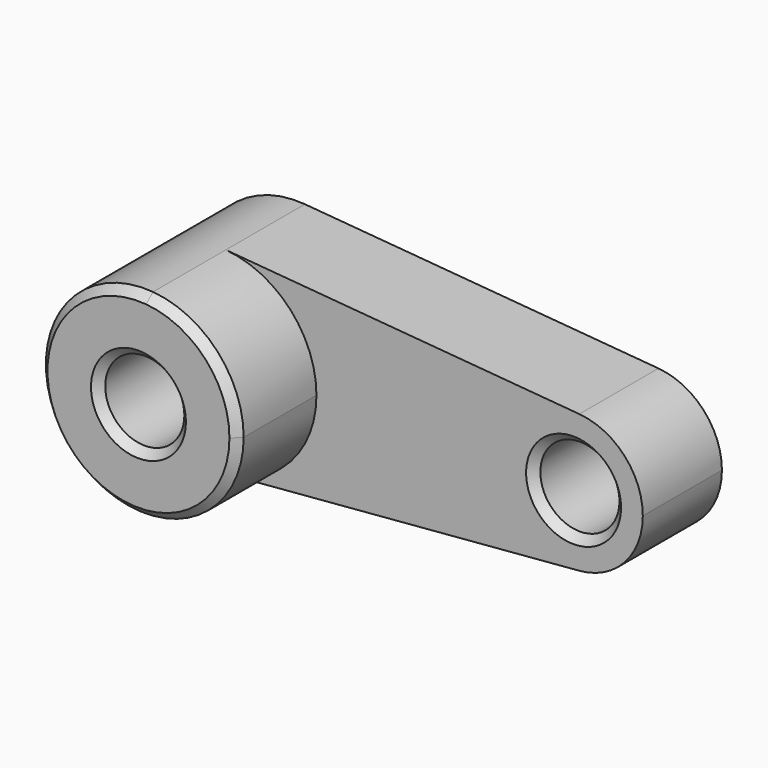
from build123d import *

# Parameters (mm, degrees)
F0_R     = 10
F1_DEPTH = 25
F2_DEPTH = 50
F3_SIZE  = 2
F4_SIZE  = 2


with BuildPart() as f1:
    # F0 (on Front) → F1 (new body)
    with BuildSketch(Plane.XZ):
        with BuildLine():
            ThreePointArc((2.083333, -24.913043), (18.399502, -16.92508), (25, 0))
            ThreePointArc((25, 0), (18.399502, 16.92508), (2.083333, 24.913043))
            ThreePointArc((2.083333, 24.913043), (-25, 0), (2.083333, -24.913043))
        make_face()
        Circle(F0_R, mode=Mode.SUBTRACT)
        with BuildLine():
            ThreePointArc((2.083333, 24.913043), (18.399502, 16.92508), (25, 0))
            ThreePointArc((25, 0), (18.399502, -16.92508), (2.083333, -24.913043))
            Line((2.083333, -24.913043), (91.458333, -17.43913))
            ThreePointArc((91.458333, -17.43913), (72.5, 0), (91.458333, 17.43913))
            Line((91.458333, 17.43913), (2.083333, 24.913043))
        make_face()
        with BuildLine():
            ThreePointArc((107.5, 0), (102.879651, 11.847556), (91.458333, 17.43913))
            ThreePointArc((91.458333, 17.43913), (72.5, 0), (91.458333, -17.43913))
            ThreePointArc((91.458333, -17.43913), (102.879651, -11.847556), (107.5, 0))
        make_face()
        with Locations((90, 0)):
            Circle(F0_R, mode=Mode.SUBTRACT)
    extrude(amount=F1_DEPTH)

    # F0 (on Front) → F2 (join)
    with BuildSketch(Plane.XZ):
        with BuildLine():
            ThreePointArc((2.083333, -24.913043), (18.399502, -16.92508), (25, 0))
            ThreePointArc((25, 0), (18.399502, 16.92508), (2.083333, 24.913043))
            ThreePointArc((2.083333, 24.913043), (-25, 0), (2.083333, -24.913043))
        make_face()
        Circle(F0_R, mode=Mode.SUBTRACT)
    extrude(amount=F2_DEPTH)

    # F3
    f3_edges = [f1.edges().sort_by_distance(p)[0] for p in [
        (-2.083333, -50, 24.913043),
        (-10, -50, 0),
        (80, -25, 0),
    ]]
    chamfer(f3_edges, length=F3_SIZE)

    # F4
    f4_edges = [f1.edges().sort_by_distance(p)[0] for p in [
        (80, 0, 0),
        (-10, 0, 0),
    ]]
    chamfer(f4_edges, length=F4_SIZE)


solid = f1.part
